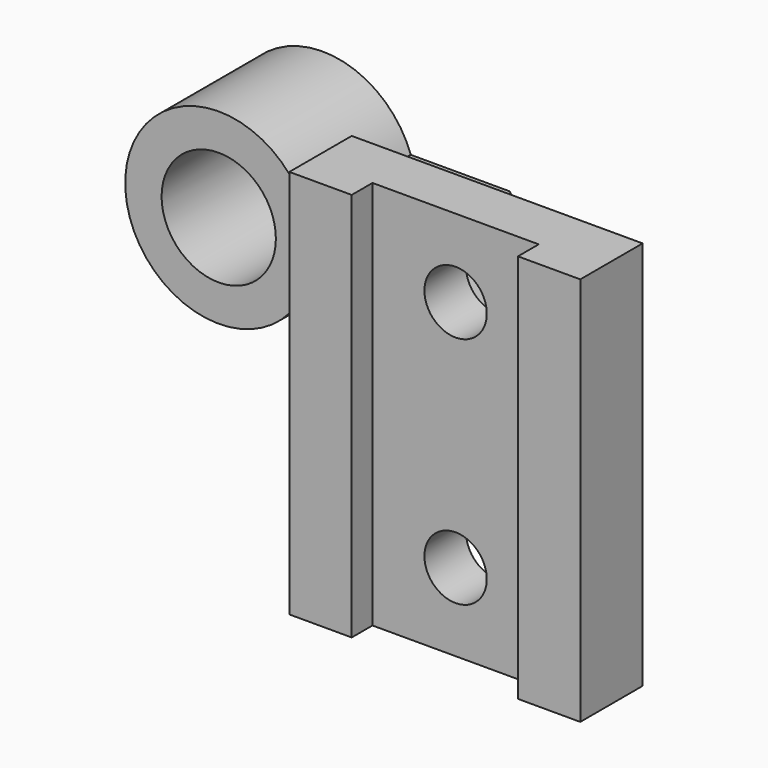
from build123d import *

# Parameters (mm, degrees)
PAD_DEPTH       = 37.5
SKETCH001_W     = 100
SKETCH001_H     = 12
PAD001_DEPTH    = 48
SKETCH002_W     = 44
SKETCH002_H     = 12
PAD002_DEPTH    = 15
POCKET_DEPTH    = 43.501
SKETCH007_R     = 6
POCKET002_DEPTH = 15.001
SKETCH005_R     = 18
SKETCH005_R_2   = 11
PAD003_DEPTH    = 25
POCKET003_DEPTH = 43.501
POCKET004_DEPTH = 63.001


with BuildPart() as part:
    # Sketch → Pad (new body, symmetric)
    with BuildSketch(Plane.XY):
        Polygon((-28, 0), (-28, 15), (28, 15), (28, 0), (16, 0), (16, 5), (-16, 5), (-16, 0), align=None)
    extrude(amount=PAD_DEPTH, both=True)

    # Sketch001 (on Face2 of Pad) → Pad001 (join)
    with BuildSketch(Plane(origin=(0, 15, 0), x_dir=(-1, 0, 0), z_dir=(0, 1, 0))):
        with Locations((22, 0)):
            Rectangle(SKETCH001_W, SKETCH001_H)
    extrude(amount=PAD001_DEPTH)

    # Sketch002 (on Face4 of Pad001) → Pad002 (join)
    with BuildSketch(Plane.XZ.offset(-15)):
        with Locations((-50, 0)):
            Rectangle(SKETCH002_W, SKETCH002_H)
    extrude(amount=PAD002_DEPTH)

    # Sketch004 (on Face11 of Pad002) → Pocket (cut, through all)
    with BuildSketch(Plane(origin=(0, 0, -6), x_dir=(1, 0, 0), z_dir=(0, 0, -1))):
        Polygon((-36, -63), (28, -15), (28, -63), align=None)
        Polygon((-72, -38), (-28, 0), (-72, 0), align=None)
    extrude(amount=-POCKET_DEPTH, mode=Mode.SUBTRACT)

    # Sketch007 → Pocket002 (cut, through all)
    with BuildSketch(Plane(origin=(0, 15, 0), x_dir=(-1, 0, 0), z_dir=(0, 1, 0))):
        with Locations((0, 22.5)):
            Circle(SKETCH007_R)
        with Locations((0, -22.5)):
            Circle(SKETCH007_R)
    extrude(amount=-POCKET002_DEPTH, mode=Mode.SUBTRACT)

    # Sketch005 (on Face17 of Pocket) → Pad003 (join)
    with BuildSketch(Plane(origin=(0, 63, 0), x_dir=(-1, 0, 0), z_dir=(0, 1, 0))):
        with Locations((72, 0)):
            Circle(SKETCH005_R)
        with Locations((72, 0)):
            Circle(SKETCH005_R_2, mode=Mode.SUBTRACT)
    extrude(amount=-PAD003_DEPTH)

    # Sketch008 (on Face11 of Pad003) → Pocket003 (cut, through all)
    with BuildSketch(Plane(origin=(0, 0, -6), x_dir=(1, 0, 0), z_dir=(0, 0, -1))):
        Polygon((-28, 0), (-55.029437, -38), (-72, -38), align=None)
    extrude(amount=-POCKET003_DEPTH, mode=Mode.SUBTRACT)

    # Sketch009 (on Face32 of Pocket003) → Pocket004 (cut, through all)
    with BuildSketch(Plane(origin=(0, 63, 0), x_dir=(-1, 0, 0), z_dir=(0, 1, 0))):
        with BuildLine():
            ThreePointArc((62.780456, 6), (61, 0), (62.780456, -6))
            Line((72, -6), (62.780456, -6))
            Line((72, 6), (72, -6))
            Line((62.780456, 6), (72, 6))
        make_face()
    extrude(amount=-POCKET004_DEPTH, mode=Mode.SUBTRACT)


solid = part.part
